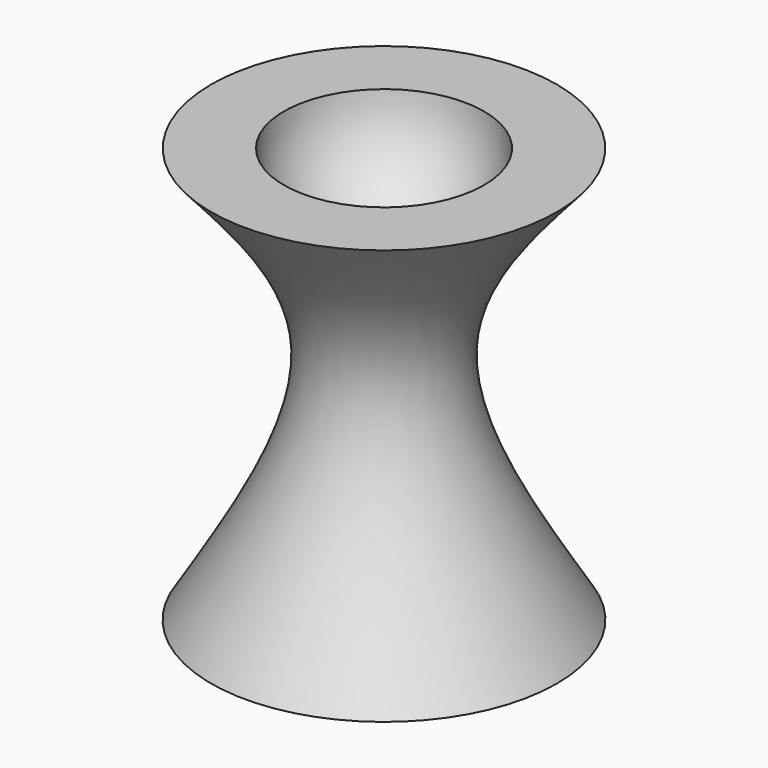
from build123d import *

# Parameters (mm, degrees)
F0_R     = 25.4
F1_DEPTH = 60.96


with BuildPart() as f1:
    # F0 (on Top) → F1 (new body)
    with BuildSketch(Plane.XY):
        Circle(F0_R)
    extrude(amount=F1_DEPTH)

    # F2 (on Front) → F3 (revolve, cut)
    with BuildSketch(Plane.XZ):
        with BuildLine():
            add(Edge.make_bspline(
                [(-25.4, 60.9805956483), (-18.3583153402, 53.032536083), (-3.2108389468, 35.9353426621), (-17.6651423767, 12.5266006439), (-25.4, 0)],
                knots=[0, 0, 0, 0, 0.4648751037, 1, 1, 1, 1], degree=3))
            Line((-25.4, 60.9805956483), (-25.4, 0))
        make_face()
    revolve(axis=Axis((0, 0, 17.4264528715), (0, 0, -1)), mode=Mode.SUBTRACT)

    # F4 (on Front) → F5 (revolve, cut)
    with BuildSketch(Plane.XZ):
        with BuildLine():
            Line((0, 75.6927165588), (0, 46.3127460876))
            ThreePointArc((0, 46.3127460876), (14.6899852356, 61.0027313232), (0, 75.6927165588))
        make_face()
    revolve(axis=Axis((0, 0, 61.0027313232), (0, 0, -1)), mode=Mode.SUBTRACT)


solid = f1.part
